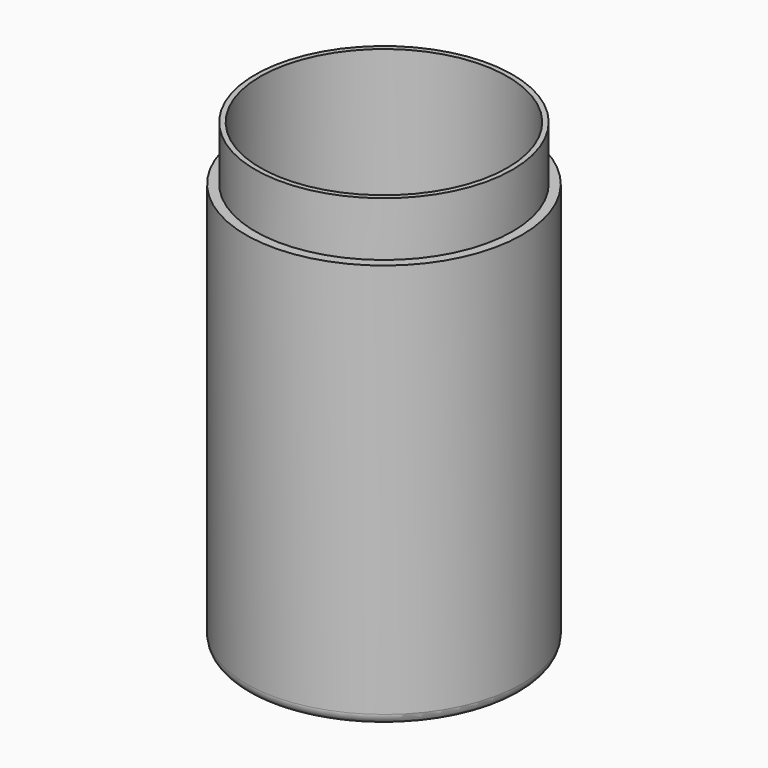
from build123d import *

# Parameters (mm, degrees)
F0_R     = 38.1
F1_DEPTH = 127
F2_T     = -4
F3_R     = 38.1
F3_R_2   = 35.5
F4_DEPTH = 15
F5_R     = 3


with BuildPart() as f1:
    # F0 (on Top) → F1 (new body)
    with BuildSketch(Plane.XY):
        Circle(F0_R)
    extrude(amount=F1_DEPTH)

    # F2
    f2_openings = [f1.faces().sort_by_distance(p)[0] for p in [
        (0, 0, 127),
    ]]
    offset(amount=F2_T, openings=f2_openings)

    # F3 (on face) → F4 (cut)
    with BuildSketch(Plane.XY.offset(127)):
        Circle(F3_R)
        Circle(F3_R_2, mode=Mode.SUBTRACT)
    extrude(amount=-F4_DEPTH, mode=Mode.SUBTRACT)

    # F5
    f5_edges = [f1.edges().sort_by_distance(p)[0] for p in [
        (-38.1, 0, 0),
        (-34.1, 0, 4),
    ]]
    fillet(f5_edges, radius=F5_R)


solid = f1.part
